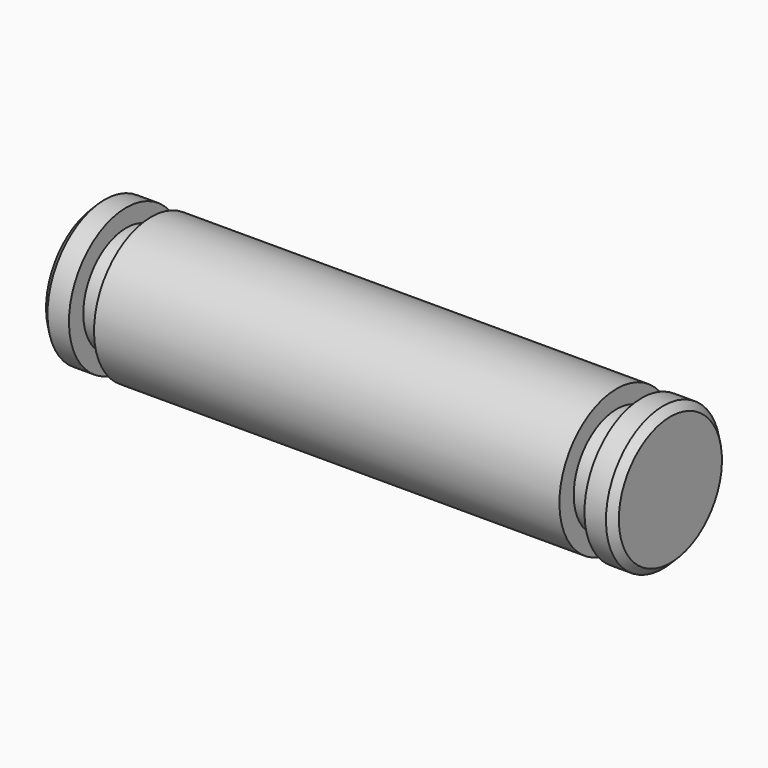
from build123d import *

# Parameters (mm, degrees)
F2_SIZE = 0.2


with BuildPart() as f1:
    # F0 (on Front) → F1 (revolve)
    with BuildSketch(Plane.XZ):
        Polygon((0, 2), (0, 0), (16, 0), (16, 2), (15.2, 2), (15.2, 1.5), (14.5, 1.5), (14.5, 2), (1.5, 2), (1.5, 1.5), (0.8, 1.5), (0.8, 2), align=None)
    revolve(axis=Axis((8, 0, 0), (-1, 0, 0)))

    # F2
    f2_edges = [f1.edges().sort_by_distance(p)[0] for p in [
        (0, 0, -2),
        (16, 0, -2),
    ]]
    chamfer(f2_edges, length=F2_SIZE)


solid = f1.part
